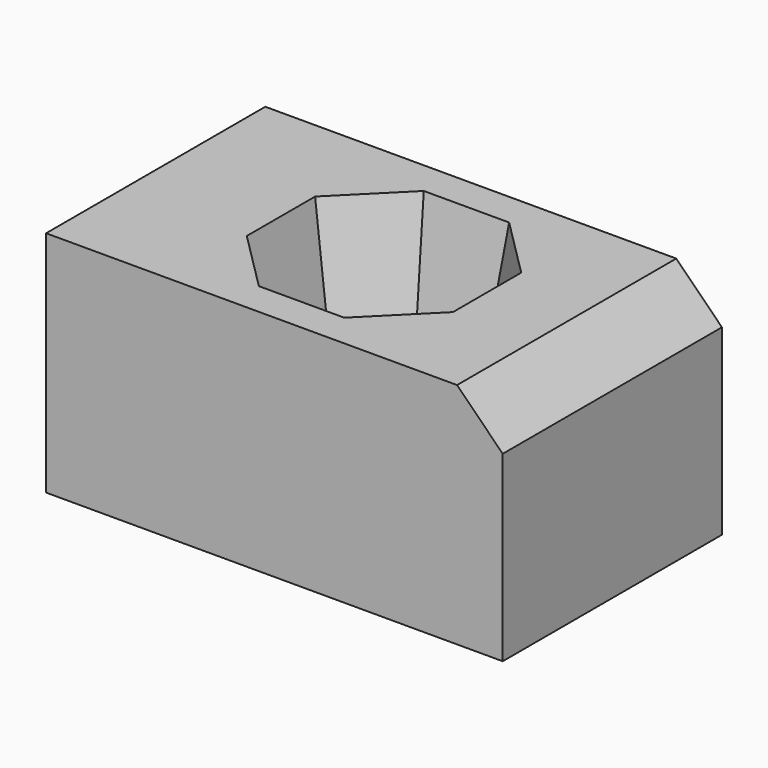
from build123d import *

# Parameters (mm, degrees)
F0_W     = 100
F0_H     = 60
F1_DEPTH = 50
F5_SIZE  = 10


with BuildPart() as f1:
    # F0 (on Top) → F1 (new body)
    with BuildSketch(Plane.XY):
        Rectangle(F0_W, F0_H)
    extrude(amount=F1_DEPTH)

    # F2 (on face) → F4 section 0
    with BuildSketch(Plane.XY.offset(50)):
        Polygon((9.348642, 22.569619), (-9.348642, 22.569619), (-22.569619, 9.348642), (-22.569619, -9.348642), (-9.348642, -22.569619), (9.348642, -22.569619), (22.569619, -9.348642), (22.569619, 9.348642), align=None)
    # F3 (on face) → F4 section 1
    with BuildSketch(Plane(origin=(0, 0, 0), x_dir=(1, 0, 0), z_dir=(0, 0, -1))):
        Polygon((-13.753892, 5.697049), (-13.753892, -5.697049), (-5.697049, -13.753892), (5.697049, -13.753892), (13.753892, -5.697049), (13.753892, 5.697049), (5.697049, 13.753892), (-5.697049, 13.753892), align=None)
    loft(mode=Mode.SUBTRACT)

    # F5
    f5_edges = [f1.edges().sort_by_distance(p)[0] for p in [
        (50, 0, 50),
    ]]
    chamfer(f5_edges, length=F5_SIZE)


solid = f1.part
